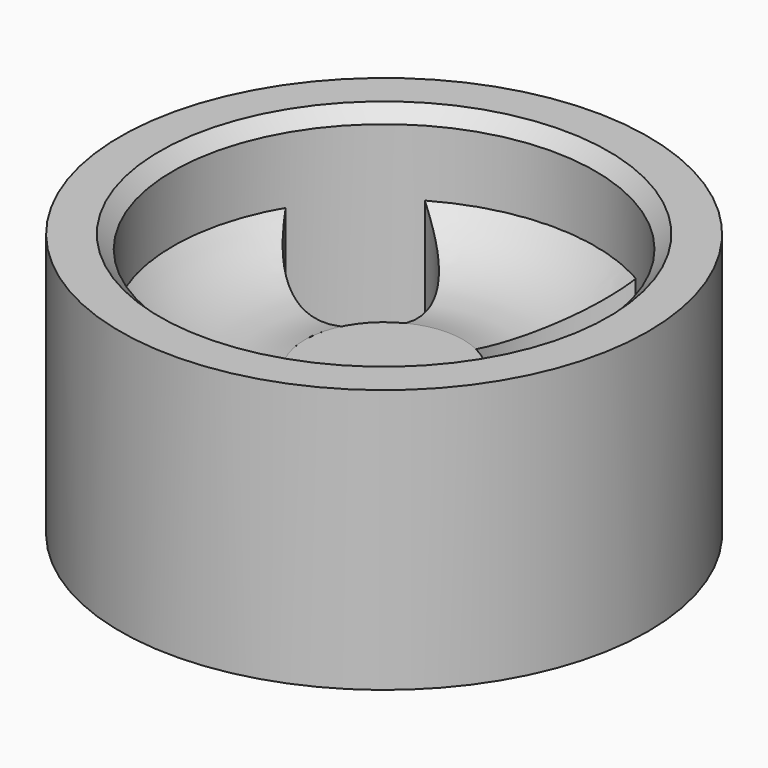
from build123d import *

# Parameters (mm, degrees)
F4_R          = 254
F5_DEPTH      = 127
F5_DEPTH_BACK = 127
F0_DEPTH      = 12.7
F0_DEPTH_BACK = 12.7
F1_DEPTH      = 76.2
F1_DEPTH_BACK = 76.2
F7_COUNT      = 4
F7_ANGLE      = 270
F3_SIZE       = 12.7


with BuildPart() as f5:
    # F4 (on Top) → F5 (new body, two sides)
    with BuildSketch(Plane.XY) as f5_sk:
        Circle(F4_R)
        with BuildLine():
            ThreePointArc((101.6, 175.976362049), (175.976362049, 101.6), (203.2, 0))
            ThreePointArc((203.2, 0), (-101.6, -175.976362049), (-101.6, 175.976362049))
            ThreePointArc((-101.6, 175.976362049), (0, 203.2), (101.6, 175.976362049))
        make_face(mode=Mode.SUBTRACT)
    extrude(amount=F5_DEPTH)
    extrude(f5_sk.sketch, amount=-F5_DEPTH_BACK)

    # F3
    f3_edges = [f5.edges().sort_by_distance(p)[0] for p in [
        (101.6, -175.976362, -127),
        (101.6, -175.976362, 127),
    ]]
    chamfer(f3_edges, length=F3_SIZE)


with BuildPart() as f0:
    # F4 (on Top) → F0 (new body, two sides)
    with BuildSketch(Plane.XY) as f0_sk:
        with BuildLine():
            ThreePointArc((76.2, 0), (64.7447626711, 40.1815343991), (33.8232097988, 68.2819923472))
            ThreePointArc((33.8232097988, 68.2819923472), (0, 76.2), (-33.8232097988, 68.2819923472))
            ThreePointArc((-33.8232097988, 68.2819923472), (-40.1815343991, -64.7447626711), (76.2, 0))
        make_face()
    extrude(amount=F0_DEPTH)
    extrude(f0_sk.sketch, amount=-F0_DEPTH_BACK)


with BuildPart() as f1:
    # F4 (on Top) → F1 (new body, two sides)
    with BuildSketch(Plane.XY) as f1_sk:
        with BuildLine():
            ThreePointArc((33.8232097988, 68.2819923472), (53.2508920208, 131.2299380424), (101.6, 175.976362049))
            ThreePointArc((101.6, 175.976362049), (0, 203.2), (-101.6, 175.976362049))
            ThreePointArc((-101.6, 175.976362049), (-53.2508920208, 131.2299380424), (-33.8232097988, 68.2819923472))
            ThreePointArc((-33.8232097988, 68.2819923472), (0, 76.2), (33.8232097988, 68.2819923472))
        make_face()
    extrude(amount=F1_DEPTH)
    extrude(f1_sk.sketch, amount=-F1_DEPTH_BACK)

    # F2 (on Right) → F6 (revolve, cut)
    with BuildSketch(Plane.YZ):
        with BuildLine():
            Line((76.2, 76.2), (76.2, 12.7))
            ThreePointArc((76.2, 12.7), (145.0668293906, 13.8605686979), (203.2, 50.8))
            Line((203.2, 50.8), (203.2, 76.2))
            Line((203.2, 76.2), (76.2, 76.2))
        make_face()
        with BuildLine():
            ThreePointArc((203.2, -50.8), (145.0668293906, -13.8605686979), (76.2, -12.7))
            Line((76.2, -12.7), (76.2, -76.2))
            Line((76.2, -76.2), (203.2, -76.2))
            Line((203.2, -76.2), (203.2, -50.8))
        make_face()
    revolve(axis=Axis((0, 0, -39.2041578889), (0, 0, -1)), mode=Mode.SUBTRACT)


with BuildPart() as f7_1:
    # F7: instance of F1
    add(f1.part.rotate(Axis((0, 0, 12.7), (0, 0, -1)), 1 * F7_ANGLE / (F7_COUNT - 1)))


with BuildPart() as f7_2:
    # F7: instance of F1
    add(f1.part.rotate(Axis((0, 0, 12.7), (0, 0, -1)), 2 * F7_ANGLE / (F7_COUNT - 1)))


with BuildPart() as f7_3:
    # F7: instance of F1
    add(f1.part.rotate(Axis((0, 0, 12.7), (0, 0, -1)), 3 * F7_ANGLE / (F7_COUNT - 1)))


solid = Compound([f5.part, f0.part, f1.part, f7_1.part, f7_2.part, f7_3.part])
